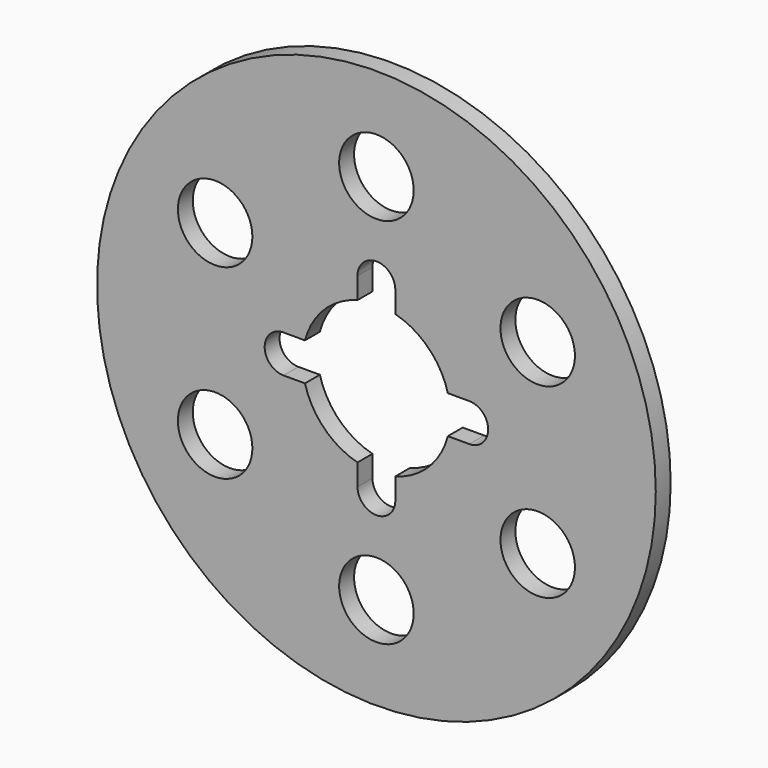
from build123d import *

# Parameters (mm, degrees)
F0_R     = 75
F0_R_2   = 10
F1_DEPTH = 5


with BuildPart() as f1:
    # F0 (on Front) → F1 (new body)
    with BuildSketch(Plane.XZ):
        Circle(F0_R)
        with Locations((-43.30127, -25)):
            Circle(F0_R_2, mode=Mode.SUBTRACT)
        with Locations((0, -50)):
            Circle(F0_R_2, mode=Mode.SUBTRACT)
        with Locations((43.30127, -25)):
            Circle(F0_R_2, mode=Mode.SUBTRACT)
        with Locations((-43.30127, 25)):
            Circle(F0_R_2, mode=Mode.SUBTRACT)
        with BuildLine():
            ThreePointArc((-19.1756, 5.076814), (-14.026362, 14.026362), (-5.076814, 19.1756))
            Line((-5.076814, 19.1756), (-5.076814, 24.923186))
            ThreePointArc((-5.076814, 24.923186), (0, 30), (5.076814, 24.923186))
            Line((5.076814, 24.923186), (5.076814, 19.1756))
            ThreePointArc((5.076814, 19.1756), (14.026362, 14.026362), (19.1756, 5.076814))
            Line((19.1756, 5.076814), (24.923186, 5.076814))
            ThreePointArc((24.923186, 5.076814), (30, 0), (24.923186, -5.076814))
            Line((24.923186, -5.076814), (19.1756, -5.076814))
            ThreePointArc((19.1756, -5.076814), (14.026362, -14.026362), (5.076814, -19.1756))
            Line((5.076814, -19.1756), (5.076814, -24.923186))
            ThreePointArc((5.076814, -24.923186), (0, -30), (-5.076814, -24.923186))
            Line((-5.076814, -24.923186), (-5.076814, -19.1756))
            ThreePointArc((-5.076814, -19.1756), (-14.026362, -14.026362), (-19.1756, -5.076814))
            Line((-19.1756, -5.076814), (-24.923186, -5.076814))
            ThreePointArc((-24.923186, -5.076814), (-30, 0), (-24.923186, 5.076814))
            Line((-24.923186, 5.076814), (-19.1756, 5.076814))
        make_face(mode=Mode.SUBTRACT)
        with Locations((43.30127, 25)):
            Circle(F0_R_2, mode=Mode.SUBTRACT)
        with Locations((0, 50)):
            Circle(F0_R_2, mode=Mode.SUBTRACT)
    extrude(amount=F1_DEPTH)


solid = f1.part
